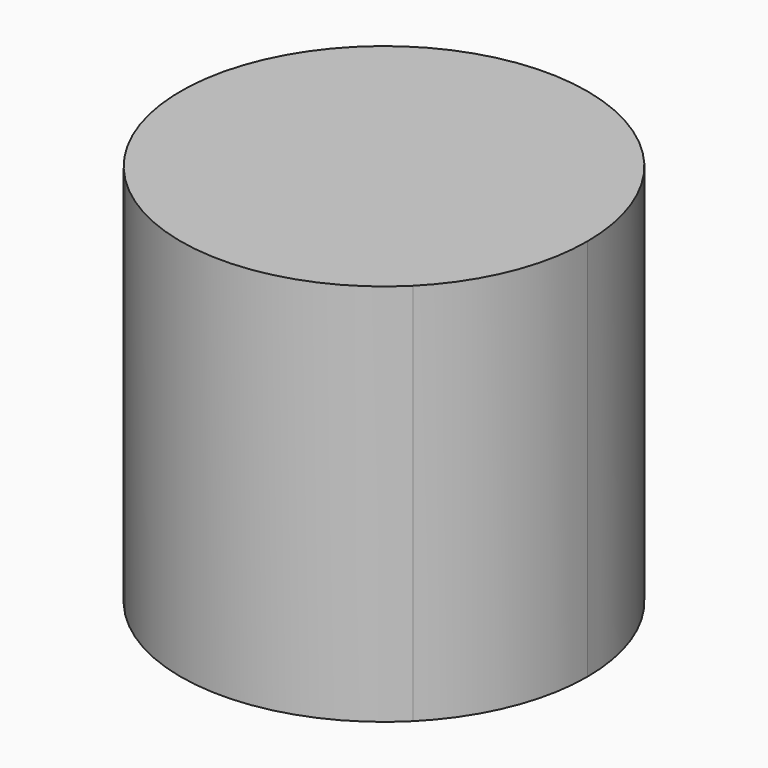
from build123d import *

# Parameters (mm, degrees)
F0_W     = 19.05
F0_H     = 19.05
F1_DEPTH = 25.4


with BuildPart() as f1:
    # F0 (on Top) → F1 (new body)
    with BuildSketch(Plane.XY):
        with BuildLine():
            ThreePointArc((13.470384, 0), (12.445012, 5.154893), (9.525, 9.525))
            Line((9.525, 9.525), (9.525, -9.525))
            ThreePointArc((9.525, -9.525), (12.445012, -5.154893), (13.470384, 0))
        make_face()
        with BuildLine():
            ThreePointArc((9.525, 9.525), (0, 13.470384), (-9.525, 9.525))
            Line((-9.525, 9.525), (9.525, 9.525))
        make_face()
        with BuildLine():
            Line((-9.525, -9.525), (-9.525, 9.525))
            ThreePointArc((-9.525, 9.525), (-13.470384, 0), (-9.525, -9.525))
        make_face()
        with BuildLine():
            Line((9.525, -9.525), (-9.525, -9.525))
            ThreePointArc((-9.525, -9.525), (0, -13.470384), (9.525, -9.525))
        make_face()
        Rectangle(F0_W, F0_H)
    extrude(amount=F1_DEPTH)


solid = f1.part
